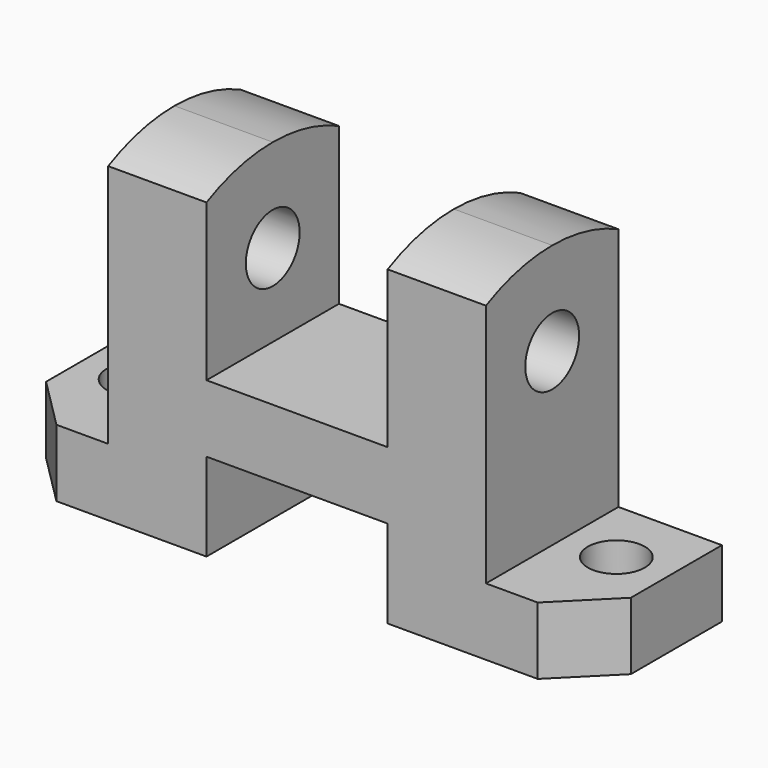
from build123d import *

# Parameters (mm, degrees)
F0_W      = 113
F0_H      = 64
F1_DEPTH  = 32
F2_W      = 20
F2_H      = 51
F2_W_2    = 35
F2_H_2    = 34
F2_H_3    = 17
F3_DEPTH  = 32.001
F5_DEPTH  = 25
F7_DEPTH  = 93.001
F8_R      = 6.5
F9_DEPTH  = 93.001
F11_R     = 5.5
F10_R     = 5.5
F12_DEPTH = 13.001


with BuildPart() as f1:
    # F0 (on Front) → F1 (new body)
    with BuildSketch(Plane.XZ):
        with Locations((56.5, 32)):
            Rectangle(F0_W, F0_H)
    extrude(amount=F1_DEPTH)

    # F2 (on face) → F3 (cut, through all)
    with BuildSketch(Plane.XZ.offset(32)):
        with Locations((10, 38.5)):
            Rectangle(F2_W, F2_H)
        with Locations((56.5, 47)):
            Rectangle(F2_W_2, F2_H_2)
        with Locations((56.5, 8.5)):
            Rectangle(F2_W_2, F2_H_3)
        with Locations((103, 38.5)):
            Rectangle(F2_W, F2_H)
    extrude(amount=-F3_DEPTH, mode=Mode.SUBTRACT)

    # F4 (on face) → F5 (cut)
    with BuildSketch(Plane.XY.offset(13)):
        Polygon((103, -32), (113, -32), (113, -22), align=None)
        Polygon((0, -22), (0, -32), (10, -32), align=None)
    extrude(amount=-F5_DEPTH, mode=Mode.SUBTRACT)

    # F6 (on face) → F7 (cut, through all)
    with BuildSketch(Plane.YZ.offset(93)):
        with BuildLine():
            ThreePointArc((-32, 60.2490309932), (-24.2168997878, 63.0497155178), (-16, 64))
            Line((-16, 64), (-32, 64))
            Line((-32, 64), (-32, 60.2490309932))
        make_face()
        with BuildLine():
            ThreePointArc((-16, 64), (-7.7831002122, 63.0497155178), (0, 60.2490309932))
            Line((0, 60.2490309932), (0, 64))
            Line((0, 64), (-16, 64))
        make_face()
    extrude(amount=-F7_DEPTH, mode=Mode.SUBTRACT)

    # F8 (on face) → F9 (cut, through all)
    with BuildSketch(Plane.YZ.offset(93)):
        with Locations((-16, 46)):
            Circle(F8_R)
    extrude(amount=-F9_DEPTH, mode=Mode.SUBTRACT)

    # F11 (on face) + F10 (on face) → F12 (cut, through all)
    with BuildSketch(Plane.XY.offset(13)):
        with Locations((103, -13)):
            Circle(F11_R)
    with BuildSketch(Plane.XY.offset(13)):
        with Locations((10, -13)):
            Circle(F10_R)
    extrude(amount=-F12_DEPTH, mode=Mode.SUBTRACT)


solid = f1.part
